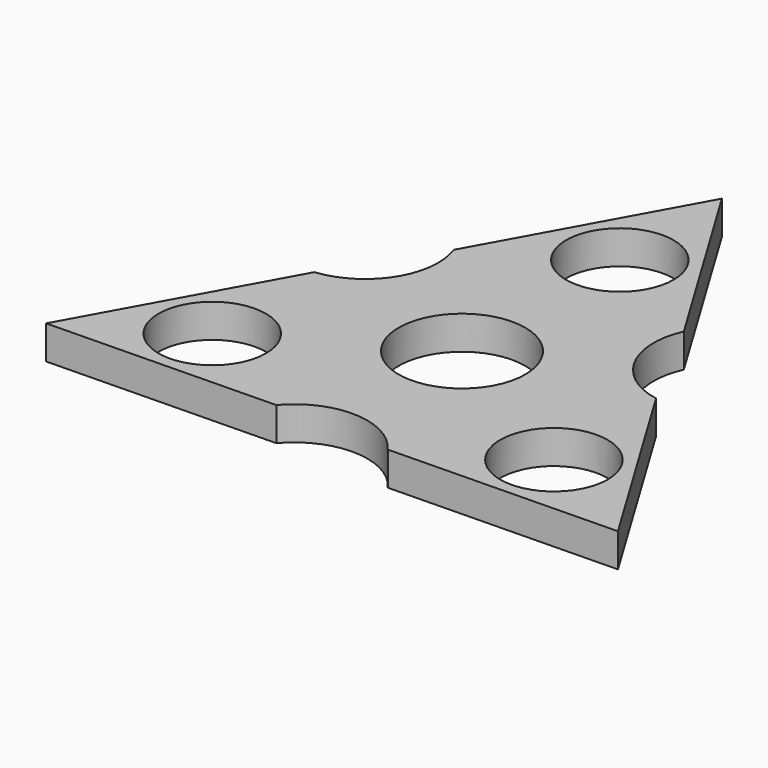
from build123d import *

# Parameters (mm, degrees)
F0_R     = 11.2
F0_R_2   = 13.2
F1_DEPTH = 7


with BuildPart() as f1:
    # F0 (on Top) → F1 (new body)
    with BuildSketch(Plane.XY):
        with BuildLine():
            Line((23.894454, 27.949036), (-0.532754, 68.412687))
            Line((-0.532754, 68.412687), (-23.3617, 27.026279))
            ThreePointArc((-23.3617, 27.026279), (-24.807166, 13.755141), (-36.151802, 6.718686))
            Line((-36.151802, 6.718686), (-58.980748, -34.667722))
            Line((-58.980748, -34.667722), (-11.724594, -33.744965))
            ThreePointArc((-11.724594, -33.744965), (0.491281, -28.361207), (12.257348, -34.667722))
            Line((12.257348, -34.667722), (59.513502, -33.744965))
            Line((59.513502, -33.744965), (35.086294, 6.718686))
            ThreePointArc((35.086294, 6.718686), (24.315885, 14.606065), (23.894454, 27.949036))
        make_face()
        with Locations((-35.619048, -20.564667)):
            Circle(F0_R, mode=Mode.SUBTRACT)
        Circle(F0_R_2, mode=Mode.SUBTRACT)
        with Locations((35.619048, -20.564667)):
            Circle(F0_R, mode=Mode.SUBTRACT)
        with Locations((0, 41.129334)):
            Circle(F0_R, mode=Mode.SUBTRACT)
    extrude(amount=F1_DEPTH)


solid = f1.part
